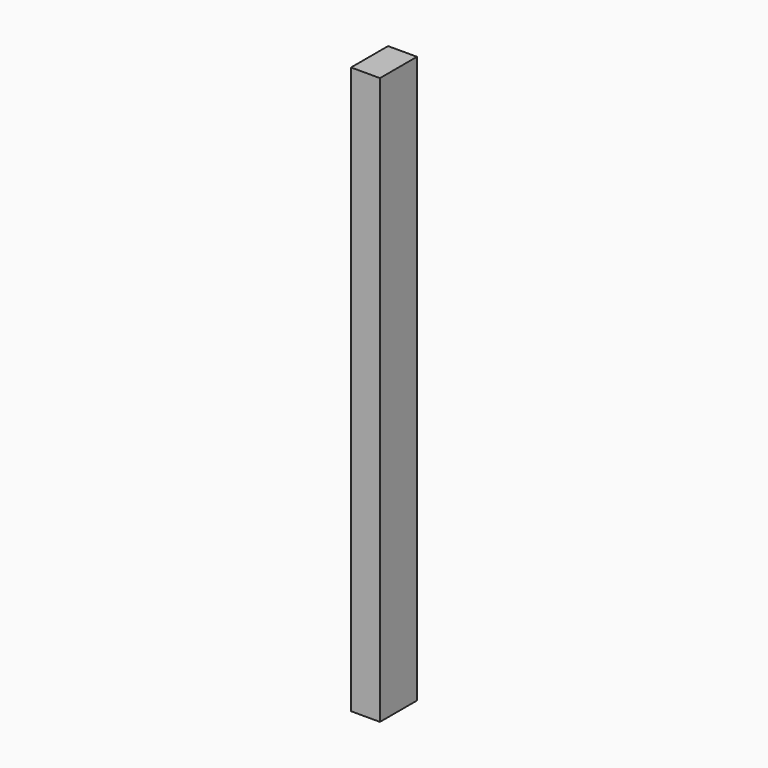
from build123d import *

# Parameters (mm, degrees)
RECTANGLE067_W   = 6
RECTANGLE067_H   = 6
EXTRUDE081_DEPTH = 7.5
FACEBINDER012_W  = 4
FACEBINDER012_H  = 2.5
EXTRUDE037_DEPTH = 55


with BuildPart() as extrude081:
    # Rectangle067 → Extrude081 (new body)
    with BuildSketch(Plane(origin=(-250, 6, 64), x_dir=(0, -1, 0), z_dir=(-1, 0, 0))):
        with Locations((3, 3)):
            Rectangle(RECTANGLE067_W, RECTANGLE067_H)
    extrude(amount=-EXTRUDE081_DEPTH)


with BuildPart() as extrude081_1:
    # Extrude081 placement: moved
    add(extrude081.part.moved(Location((107.5, 0, 0))))


with BuildPart() as cut003:
    # Facebinder012 → Extrude037 (new body)
    with BuildSketch(Plane(origin=(-141.25, 2, 70), x_dir=(0, -1, 0), z_dir=(0, 0, -1))):
        Rectangle(FACEBINDER012_W, FACEBINDER012_H)
    extrude(amount=EXTRUDE037_DEPTH)

    # Cut003: cut Extrude081
    add(extrude081_1.part, mode=Mode.SUBTRACT)


solid = cut003.part
